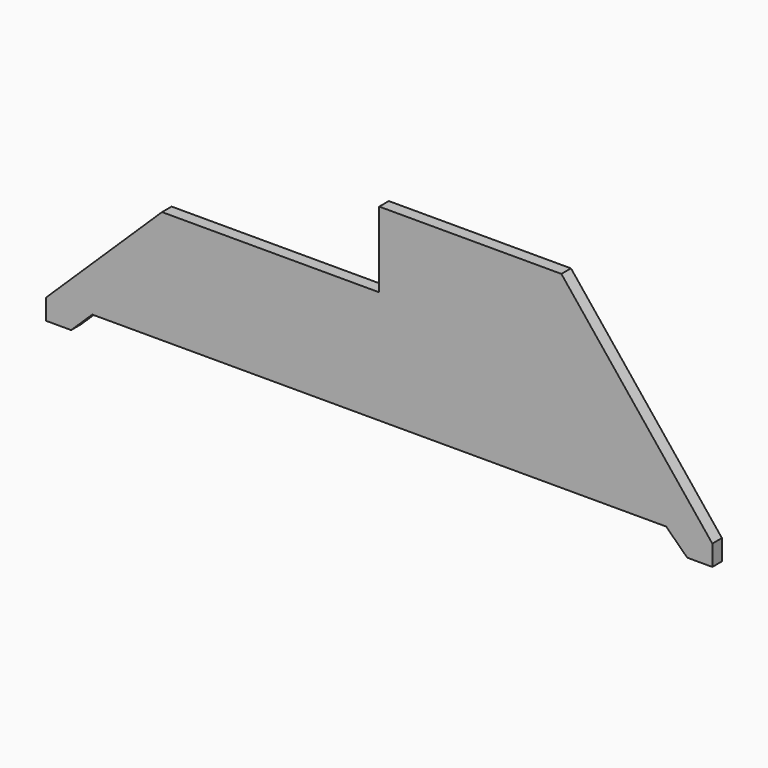
from build123d import *

# Parameters (mm, degrees)
F0_W     = 28.7265287175
F0_H     = 29.8637916752
F1_DEPTH = 3.175


with BuildPart() as f1:
    # F0 (on Front) → F1 (new body)
    with BuildSketch(Plane.XZ):
        Polygon((-81.4916417003, -5.4396898486), (-75.9050311806, 0), (-28.7265287175, 0), (-28.7265287175, 29.8637916752), (-57.4530574351, 29.8637916752), (-88.1234407425, 0), (-88.1234407425, -5.4396898486), align=None)
        with Locations((-14.3632643588, 14.9318958376)):
            Rectangle(F0_W, F0_H)
        Polygon((0, 29.8637916752), (0, 0), (24.0984540433, 0), (24.0984540433, 49.8253144324), (0, 49.8253144324), align=None)
        Polygon((24.0984540433, 49.8253144324), (24.0984540433, 0), (75.9050311806, 0), (81.4916417003, -5.4396898486), (88.1234407425, -5.4396898486), (88.1234407425, 0), (48.1969080865, 49.8253144324), align=None)
    extrude(amount=F1_DEPTH)


solid = f1.part
